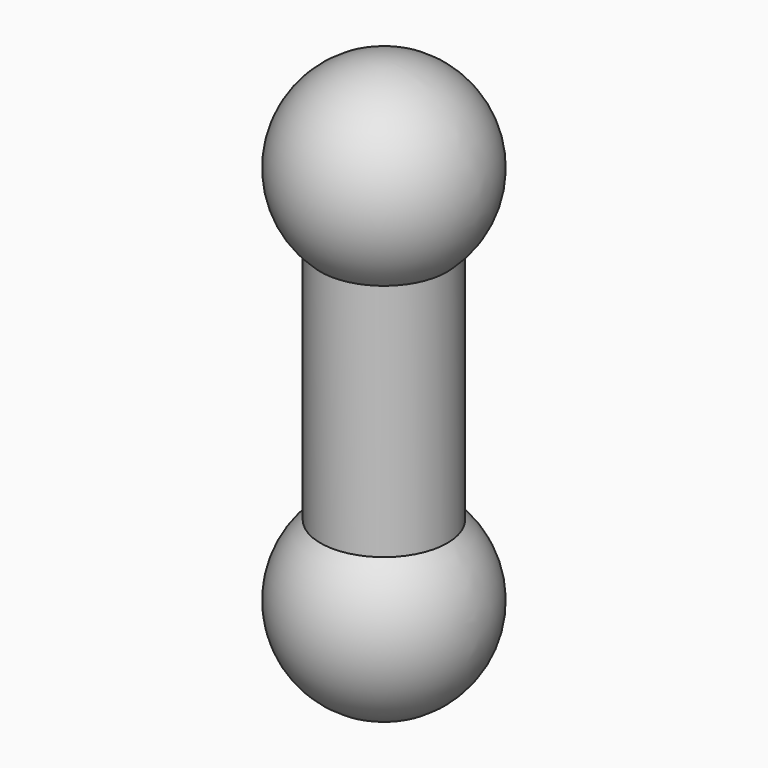
from build123d import *

# Parameters (mm, degrees)
F0_R     = 12.7
F1_DEPTH = 76.2


with BuildPart() as f1:
    # F0 (on Top) → F1 (new body)
    with BuildSketch(Plane.XY):
        Circle(F0_R)
    extrude(amount=F1_DEPTH)

    # F2 (on Front) → F3 (revolve)
    with BuildSketch(Plane.XZ):
        with BuildLine():
            ThreePointArc((0, 57.15), (19.05, 76.2), (0, 95.25))
            Line((0, 95.25), (0, 76.2))
            Line((0, 76.2), (0, 57.15))
        make_face()
    revolve(axis=Axis((0, 0, 85.725), (0, 0, -1)))

    # F4 (on Front) → F5 (revolve)
    with BuildSketch(Plane.XZ):
        with BuildLine():
            Line((0, 0), (0, -19.05))
            ThreePointArc((0, -19.05), (19.05, 0), (0, 19.05))
            Line((0, 19.05), (0, 0))
        make_face()
    revolve(axis=Axis((0, 0, -9.525), (0, 0, 1)))


solid = f1.part
